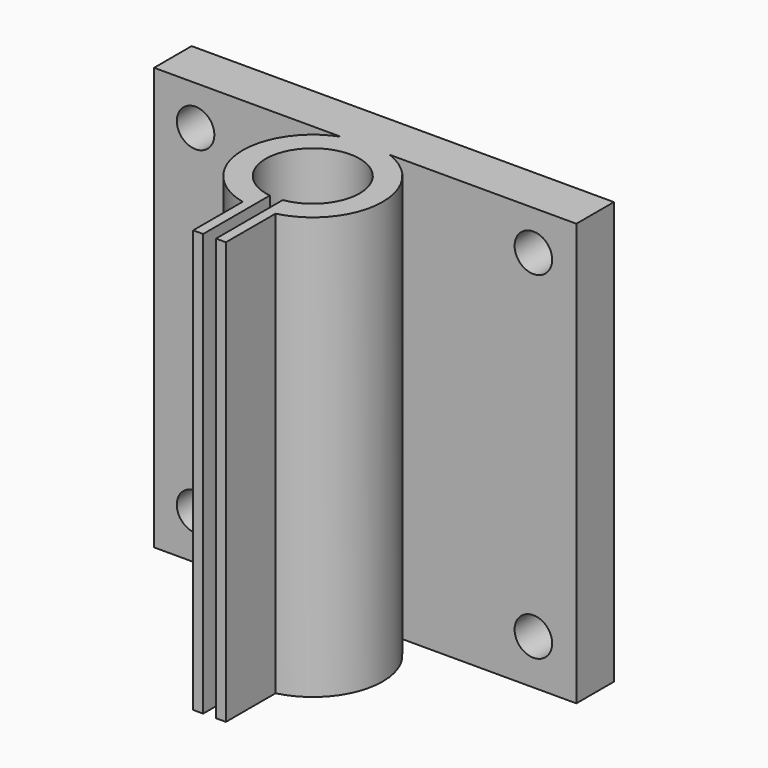
from build123d import *

# Parameters (mm, degrees)
PAD_DEPTH    = 36
SKETCH001_R  = 1.6
POCKET_DEPTH = 10


with BuildPart() as part:
    # Sketch → Pad (new body)
    with BuildSketch(Plane.XY):
        with BuildLine():
            ThreePointArc((2.201846, -3.339442), (0.011769, 3.999983), (-2.22146, -3.326427))
            ThreePointArc((-2.22146, -3.326427), (-1.387999, -3.751461), (-0.478604, -3.971264))
            Line((-0.478604, -3.971264), (-0.478604, -11.086475))
            Line((-0.478604, -11.086475), (-1.32632, -11.086475))
            Line((-1.32632, -5.816765), (-1.32632, -11.086475))
            ThreePointArc((-2.084926, 5.589898), (-5.95291, -0.395901), (-1.32632, -5.816765))
            Line((-18, 5.589898), (-2.084926, 5.589898))
            Line((-18, 5.589898), (-18, 9.589898))
            Line((-18, 9.589898), (18, 9.589898))
            Line((18, 9.589898), (18, 5.589898))
            Line((2.084926, 5.589898), (18, 5.589898))
            ThreePointArc((1.451052, -5.78691), (5.956822, -0.331892), (2.084926, 5.589898))
            Line((1.451052, -5.78691), (1.451052, -11.069447))
            Line((0.603336, -11.069447), (1.451052, -11.069447))
            Line((0.603336, -3.954236), (0.603336, -11.069447))
            ThreePointArc((0.603336, -3.954236), (1.435881, -3.733396), (2.201846, -3.339442))
        make_face()
    extrude(amount=PAD_DEPTH)

    # Sketch001 → Pocket (cut)
    with BuildSketch(Plane(origin=(0, 9.589898, 0), x_dir=(-1, 0, 0), z_dir=(0, 1, 0))):
        with Locations((-14.335366, 32.630134)):
            Circle(SKETCH001_R)
        with Locations((14.464634, 32.630134)):
            Circle(SKETCH001_R)
        with Locations((14.464634, 3.830134)):
            Circle(SKETCH001_R)
        with Locations((-14.335366, 3.830134)):
            Circle(SKETCH001_R)
    extrude(amount=-POCKET_DEPTH, mode=Mode.SUBTRACT)


solid = part.part
